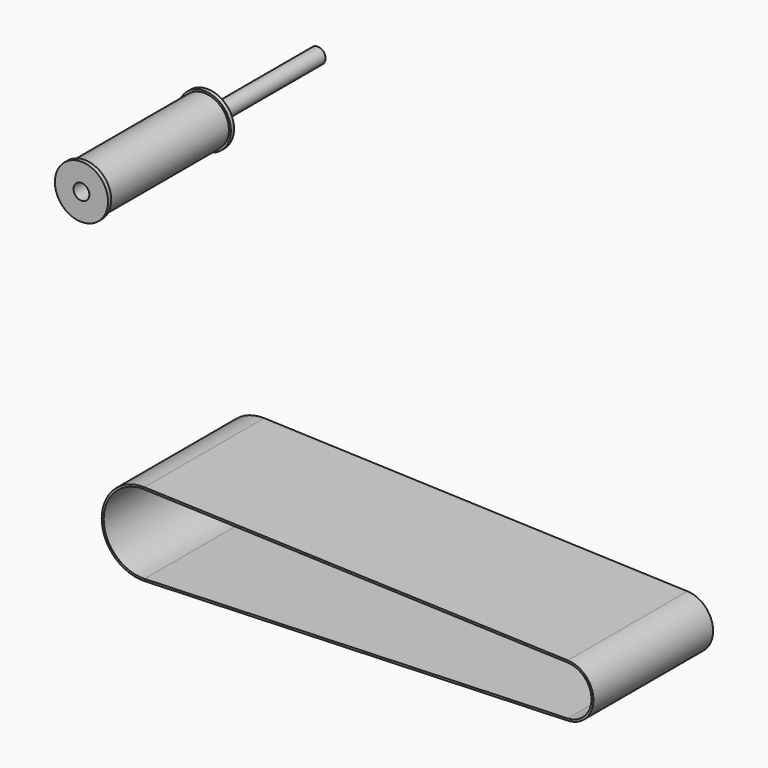
from build123d import *

# Parameters (mm, degrees)
F0_R     = 13.5
F0_R_2   = 12.5
F0_R_3   = 4
F1_DEPTH = 40
F2_DEPTH = 38
F3_DEPTH = 76
F4_DEPTH = 110


with BuildPart() as f1:
    # F0 (on Front) → F1 (new body, symmetric)
    with BuildSketch(Plane.XZ):
        Circle(F0_R)
        Circle(F0_R_2, mode=Mode.SUBTRACT)
        Circle(F0_R_2)
        Circle(F0_R_3, mode=Mode.SUBTRACT)
    extrude(amount=F1_DEPTH, both=True)

    # F0 (on Front) → F2 (cut, symmetric)
    with BuildSketch(Plane.XZ):
        Circle(F0_R)
        Circle(F0_R_2, mode=Mode.SUBTRACT)
    extrude(amount=F2_DEPTH, both=True, mode=Mode.SUBTRACT)


with BuildPart() as f3:
    # F0 (on Front) → F3 (new body)
    with BuildSketch(Plane.XZ):
        with BuildLine():
            Line((215.049728069, -155.8543669152), (0.0273299848, -148.3589195562))
            ThreePointArc((0.0273299848, -148.3589195562), (-21.7042628563, -169.3461721614), (0.0273299848, -190.3334247667))
            Line((0.0273299848, -190.3334247667), (215.049728069, -182.8379774077))
            ThreePointArc((215.049728069, -182.8379774077), (228.0794183855, -169.3461721614), (215.049728069, -155.8543669152))
        make_face()
        with BuildLine():
            ThreePointArc((-0.0075077695, -189.3340317855), (-20.7042628563, -169.3461721614), (-0.0075077695, -149.3583125374))
            Line((-0.0075077695, -149.3583125374), (215.0148903147, -156.8537598964))
            ThreePointArc((215.0148903147, -156.8537598964), (227.0794183855, -169.3461721614), (215.0148903147, -181.8385844265))
            Line((215.0148903147, -181.8385844265), (-0.0075077695, -189.3340317855))
        make_face(mode=Mode.SUBTRACT)
    extrude(amount=-F3_DEPTH)


with BuildPart() as f4:
    # F0 (on Front) → F4 (new body)
    with BuildSketch(Plane.XZ):
        Circle(F0_R_3)
    extrude(amount=-F4_DEPTH)


solid = Compound([f1.part, f3.part, f4.part])
